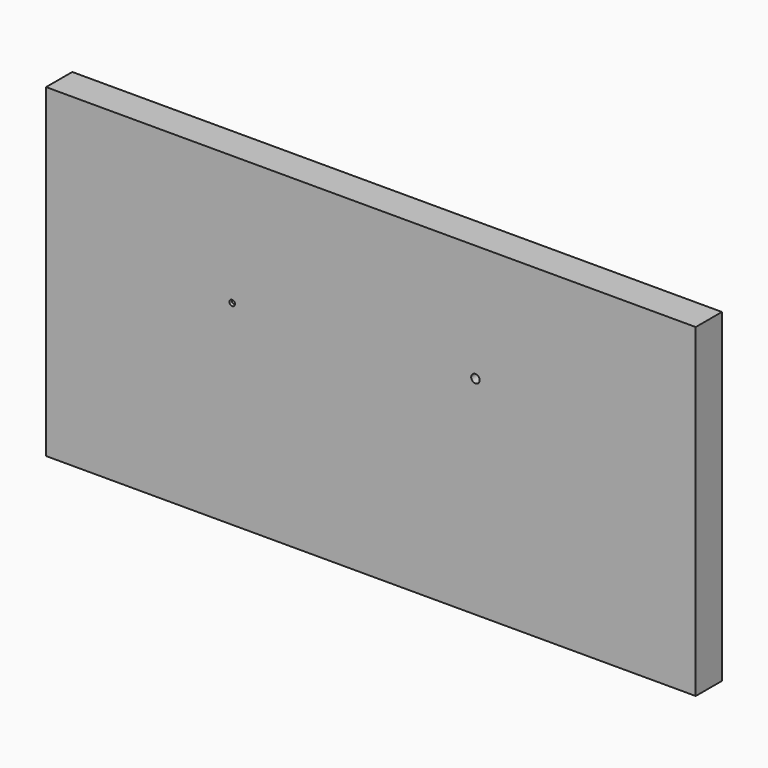
from build123d import *

# Parameters (mm, degrees)
F0_W     = 2540
F0_H     = 1270
F1_DEPTH = 128
F3_D     = 22
F3_DEPTH = 12
F3_TIP   = 6.6094668093
F5_D     = 33


with BuildPart() as f1:
    # F0 (on Front) → F1 (new body)
    with BuildSketch(Plane.XZ):
        with Locations((3.2995678484, -466.1856472778)):
            Rectangle(F0_W, F0_H)
    extrude(amount=F1_DEPTH)

    # F3
    with Locations(Plane.XZ.offset(128)):
        with Locations((-538.9879345894, -337.479621172)):
            Hole(F3_D / 2, depth=F3_DEPTH)
            with Locations((0, 0, -(F3_DEPTH + F3_TIP / 2))):  # 118° drill point
                Cone(0, F3_D / 2, F3_TIP, mode=Mode.SUBTRACT)

    # F5 (through all)
    with Locations(Plane.XZ.offset(128)):
        with Locations((411.8869006634, -288.9576852322)):
            Hole(F5_D / 2)


solid = f1.part
